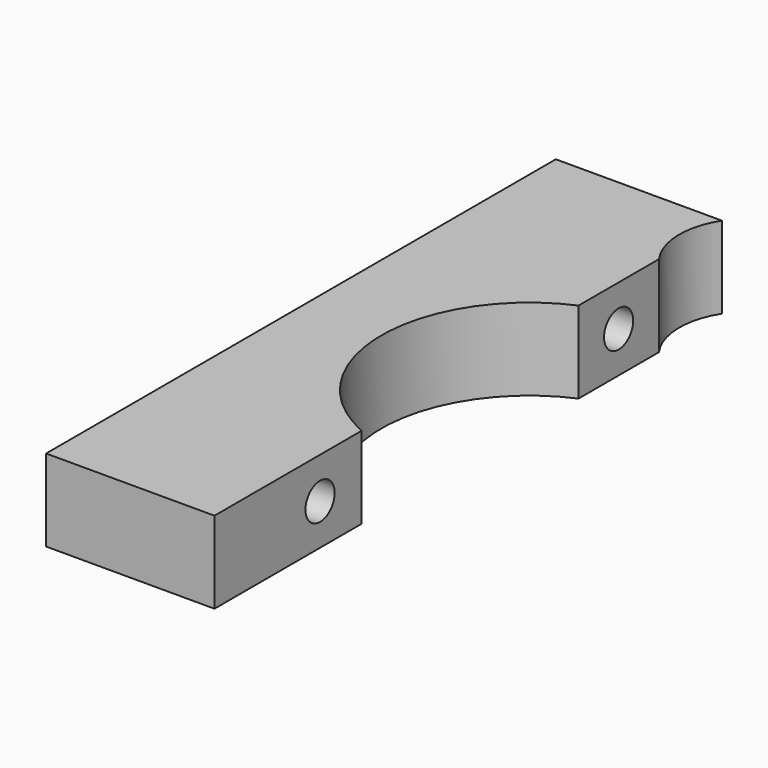
from build123d import *

# Parameters (mm, degrees)
F1_DEPTH = 18
F2_R     = 4
F3_DEPTH = 37.001


with BuildPart() as f1:
    # F0 (on Top) → F1 (new body)
    with BuildSketch(Plane.XY):
        with BuildLine():
            Line((0, 140), (0, 0))
            Line((0, 0), (37, 0))
            Line((37, 0), (37, 40.427738))
            ThreePointArc((37, 40.427738), (17.5, 70.21448), (37, 100.001222))
            Line((37, 100.001222), (37, 122.08924))
            ThreePointArc((37, 122.08924), (34.006301, 130.967637), (36.497201, 140))
            Line((36.497201, 140), (0, 140))
        make_face()
    extrude(amount=F1_DEPTH)

    # F2 (on face) → F3 (cut, through all)
    with BuildSketch(Plane.YZ.offset(37)):
        with Locations((111, 9)):
            Circle(F2_R)
        with Locations((29, 9)):
            Circle(F2_R)
    extrude(amount=-F3_DEPTH, mode=Mode.SUBTRACT)


solid = f1.part
